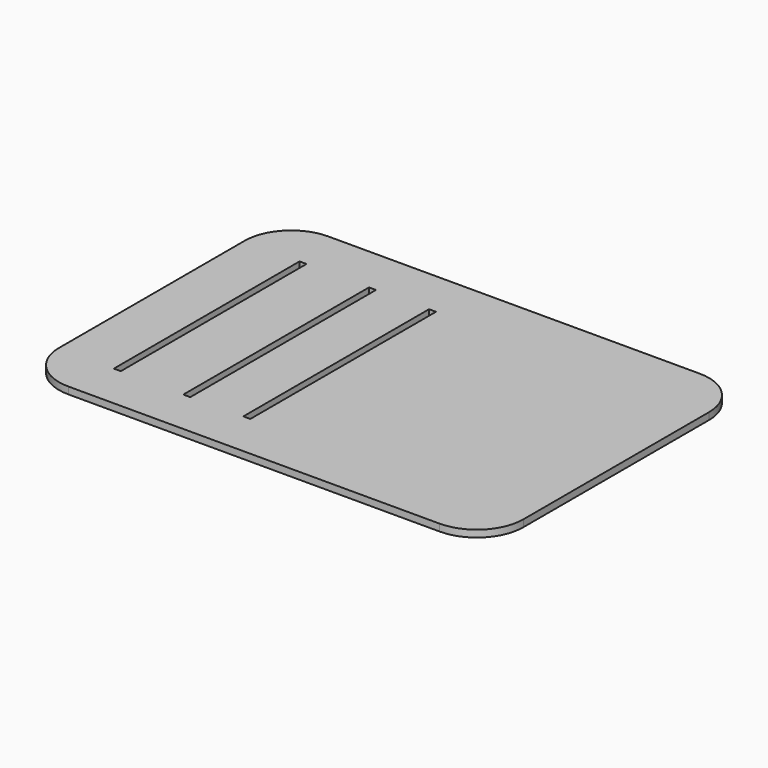
from build123d import *

# Parameters (mm, degrees)
F0_W     = 3
F0_H     = 100
F1_DEPTH = 3


with BuildPart() as f1:
    # F0 (on Top) → F1 (new body)
    with BuildSketch(Plane.XY):
        with BuildLine():
            Line((-80, -70), (80, -70))
            ThreePointArc((80, -70), (94.142136, -64.142136), (100, -50))
            Line((100, -50), (100, 50))
            ThreePointArc((100, 50), (94.142136, 64.142136), (80, 70))
            Line((80, 70), (-80, 70))
            ThreePointArc((-80, 70), (-94.142136, 64.142136), (-100, 50))
            Line((-100, 50), (-100, -50))
            ThreePointArc((-100, -50), (-94.142136, -64.142136), (-80, -70))
        make_face()
        with Locations((-74.680415, -0.26406)):
            Rectangle(F0_W, F0_H, mode=Mode.SUBTRACT)
        with Locations((-44.611705, -0.439167)):
            Rectangle(F0_W, F0_H, mode=Mode.SUBTRACT)
        with Locations((-18.910415, -0.24188)):
            Rectangle(F0_W, F0_H, mode=Mode.SUBTRACT)
    extrude(amount=F1_DEPTH)


solid = f1.part
